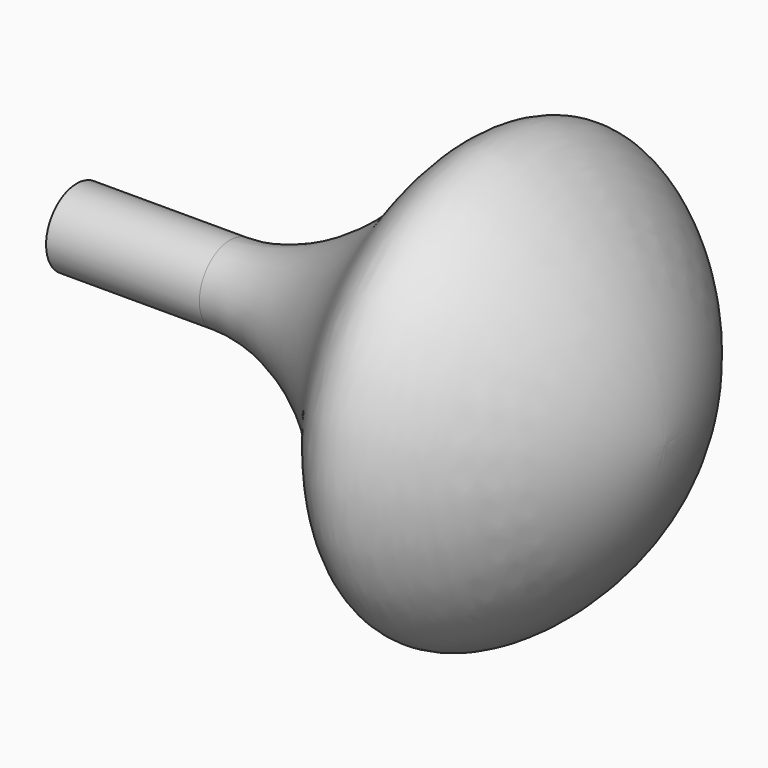
from build123d import *


with BuildPart() as f1:
    # F0 (on Front) → F1 (revolve)
    with BuildSketch(Plane.XZ):
        with BuildLine():
            Line((0, 1.5), (0, 0))
            Line((0, 0), (23, 0))
            add(Edge.make_bspline(
                [(6, 1.5), (8.5779336897, 1.5), (13.5497065532, 4.911551734), (16.4906647586, 11.0832618448), (22.9429365294, 4.0163773013), (23, 0)],
                knots=[0, 0, 0, 0, 0.3466726383, 0.608782504, 1, 1, 1, 1], degree=3))
            Line((6, 1.5), (0, 1.5))
        make_face()
    revolve(axis=Axis((8.6424304172, 0, 0), (1, 0, 0)))


solid = f1.part
